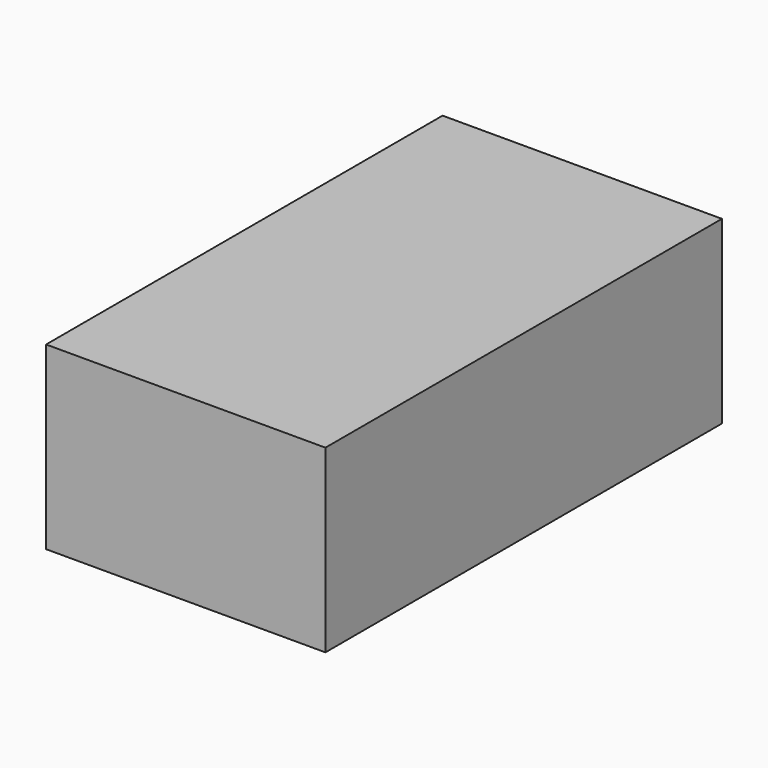
from build123d import *

# Parameters (mm, degrees)
PAD_DEPTH = 32.5
FILLET_R  = 1
BOX_W     = 62
BOX_H     = 110
BOX_DEPTH = 40


with BuildPart() as fillet_body:
    # Sketch → Pad (new body, symmetric)
    with BuildSketch(Plane.XZ):
        with BuildLine():
            ThreePointArc((-19.43706, 21.489941), (-27.227241, 7.25), (-11, 6.876525))
            Line((-11, 6.876525), (-8, 6.876525))
            ThreePointArc((-8, 6.876525), (0, 2.5), (8, 6.876525))
            Line((8, 6.876525), (11, 6.876525))
            ThreePointArc((11, 6.876525), (27.227241, 7.25), (19.43706, 21.489941))
            Line((19.43706, 21.489941), (17.93706, 24.088017))
            ThreePointArc((17.93706, 24.088017), (14.25, 36.681724), (1.5, 33.577958))
            Line((-1.5, 33.577958), (1.5, 33.577958))
            ThreePointArc((-1.5, 33.577958), (-14.25, 36.681724), (-17.93706, 24.088017))
            Line((-19.43706, 21.489941), (-17.93706, 24.088017))
        make_face()
    extrude(amount=PAD_DEPTH, both=True)

    # Fillet
    fillet_edges = [fillet_body.edges().sort_by_distance(p)[0] for p in [
        (-27.227241, -32.5, 7.25),
        (-9.5, -32.5, 6.876525),
        (0, -32.5, 2.5),
        (9.5, -32.5, 6.876525),
        (27.227241, -32.5, 7.25),
        (18.68706, -32.5, 22.788979),
        (14.25, -32.5, 36.681724),
        (0, -32.5, 33.577958),
        (-14.25, -32.5, 36.681724),
        (-18.68706, -32.5, 22.788979),
        (-27.227241, 32.5, 7.25),
        (-9.5, 32.5, 6.876525),
        (0, 32.5, 2.5),
        (9.5, 32.5, 6.876525),
        (27.227241, 32.5, 7.25),
        (18.68706, 32.5, 22.788979),
        (14.25, 32.5, 36.681724),
        (0, 32.5, 33.577958),
        (-14.25, 32.5, 36.681724),
        (-18.68706, 32.5, 22.788979),
    ]]
    fillet(fillet_edges, radius=FILLET_R)


with BuildPart() as cubo:
    # Box → Box (new body)
    with BuildSketch(Plane(origin=(-31, -35, 0), x_dir=(1, 0, 0), z_dir=(0, 0, 1))):
        with Locations((31, 55)):
            Rectangle(BOX_W, BOX_H)
    extrude(amount=BOX_DEPTH)


solid = Compound([fillet_body.part, cubo.part])
